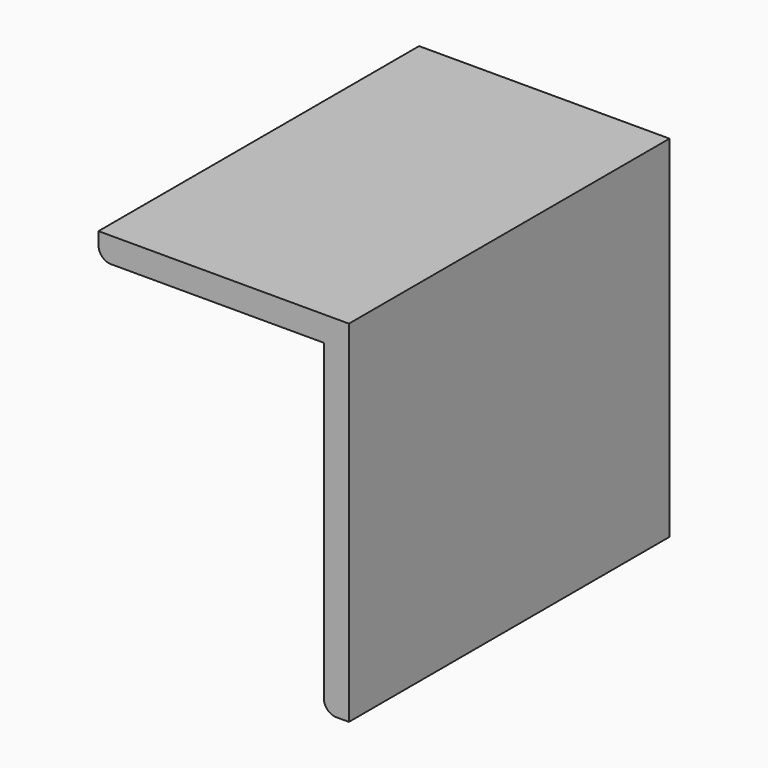
from build123d import *

# Parameters (mm, degrees)
F1_DEPTH = 50.8


with BuildPart() as f1:
    # F0 (on Front) → F1 (new body)
    with BuildSketch(Plane.XZ):
        with BuildLine():
            Line((-46.61043, 29.230101), (-78.36043, 29.230101))
            Line((-78.36043, 29.230101), (-78.36043, 27.642601))
            ThreePointArc((-78.36043, 27.642601), (-77.895462, 26.520069), (-76.77293, 26.055101))
            Line((-76.77293, 26.055101), (-49.78543, 26.055101))
            Line((-49.78543, 26.055101), (-49.78543, -13.632399))
            ThreePointArc((-49.78543, -13.632399), (-49.320462, -14.754931), (-48.19793, -15.219899))
            Line((-48.19793, -15.219899), (-46.61043, -15.219899))
            Line((-46.61043, -15.219899), (-46.61043, 29.230101))
        make_face()
    extrude(amount=F1_DEPTH)


solid = f1.part
